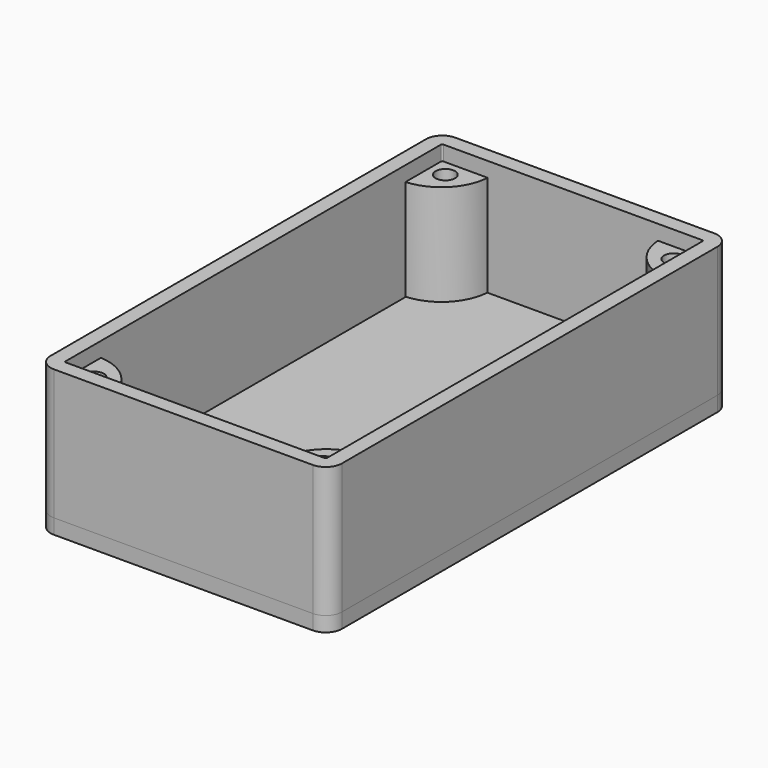
from build123d import *

# Parameters (mm, degrees)
PAD_DEPTH                     = 45
POCKET_DEPTH                  = 40.4
SKETCH002_R                   = 3
PAD001_DEPTH                  = 35.8
SKETCH002_MIRRORED_2_R        = 3
PAD001_MIRRORED_2_DEPTH       = 35.8
SKETCH006_W                   = 27
SKETCH006_H                   = 12
POCKET002_DEPTH               = 4.6
SKETCH007_W                   = 38
SKETCH007_H                   = 12
POCKET003_DEPTH               = 3.8
CHAMFER001_SIZE               = 0.6
PAD002_DEPTH                  = 4.6
PAD003_DEPTH                  = 4.6
SKETCH005_R                   = 3
POCKET001_DEPTH               = 9.2
SKETCH005_MIRRORED002_2_R     = 3
POCKET001_MIRRORED002_2_DEPTH = 9.2
CHAMFER_SIZE                  = 2


with BuildPart() as boxbody:
    # Sketch → Pad (new body)
    with BuildSketch(Plane.XY):
        with BuildLine():
            Line((-40, 77.5), (40, 77.5))
            ThreePointArc((45, 72.5), (43.535534, 76.035534), (40, 77.5))
            Line((45, 72.5), (45, -72.5))
            ThreePointArc((40, -77.5), (43.535534, -76.035534), (45, -72.5))
            Line((40, -77.5), (-40, -77.5))
            ThreePointArc((-45, -72.5), (-43.535534, -76.035534), (-40, -77.5))
            Line((-45, -72.5), (-45, 72.5))
            ThreePointArc((-40, 77.5), (-43.535534, 76.035534), (-45, 72.5))
        make_face()
    extrude(amount=PAD_DEPTH)

    # Sketch001 (on Face10 of Pad) → Pocket (cut)
    with BuildSketch(Plane.XY.offset(45)):
        with BuildLine():
            Line((-40, 72.9), (40, 72.9))
            ThreePointArc((40.4, 72.5), (40.282843, 72.782843), (40, 72.9))
            Line((40.4, 72.5), (40.4, -72.5))
            ThreePointArc((40, -72.9), (40.282843, -72.782843), (40.4, -72.5))
            Line((40, -72.9), (-40, -72.9))
            ThreePointArc((-40.4, -72.5), (-40.282843, -72.782843), (-40, -72.9))
            Line((-40.4, -72.5), (-40.4, 72.5))
            ThreePointArc((-40, 72.9), (-40.282843, 72.782843), (-40.4, 72.5))
        make_face()
    extrude(amount=-POCKET_DEPTH, mode=Mode.SUBTRACT)

    # Sketch002 (on Face19 of Pocket) → Pad001 (join)
    with BuildSketch(Plane.XY.offset(4.6)):
        with BuildLine():
            Line((-41.282843, 73.782843), (-42.7, 58.849937))
            ThreePointArc((-42.7, 58.849937), (-30.676241, 63.176241), (-26.349937, 75.2))
            Line((-41.282843, 73.782843), (-26.349937, 75.2))
        make_face()
        with Locations((-35.282843, 67.782843)):
            Circle(SKETCH002_R, mode=Mode.SUBTRACT)
    pad001 = extrude(amount=PAD001_DEPTH)

    # Sketch002 Mirrored 2 → Pad001 Mirrored 2 (add)
    with BuildSketch(Plane(origin=(0, 0, 4.6), x_dir=(-1, 0, 0), z_dir=(0, 0, -1))):
        with BuildLine():
            Line((-41.282843, 73.782843), (-42.7, 58.849937))
            ThreePointArc((-42.7, 58.849937), (-30.676241, 63.176241), (-26.349937, 75.2))
            Line((-41.282843, 73.782843), (-26.349937, 75.2))
        make_face()
        with Locations((-35.282843, 67.782843)):
            Circle(SKETCH002_MIRRORED_2_R, mode=Mode.SUBTRACT)
    pad001_mirrored_2 = extrude(amount=-PAD001_MIRRORED_2_DEPTH)

    # Mirrored001: Pad001, Pad001 Mirrored 2 across Sketch002 H_Axis
    add(pad001.mirror(Plane(origin=(0, 0, 4.6), x_dir=(0, 0, 1), z_dir=(0, 1, 0))))
    add(pad001_mirrored_2.mirror(Plane(origin=(0, 0, 4.6), x_dir=(0, 0, 1), z_dir=(0, 1, 0))))

    # Sketch006 (on Face21 of MultiTransform) → Pocket002 (cut)
    with BuildSketch(Plane.XY.offset(4.6)):
        with Locations((0, 36.45)):
            Rectangle(SKETCH006_W, SKETCH006_H)
    extrude(amount=-POCKET002_DEPTH, mode=Mode.SUBTRACT)

    # Sketch007 (on Face23 of Pocket002) → Pocket003 (cut)
    with BuildSketch(Plane.XY.offset(4.6)):
        with Locations((-1, 36.45)):
            Rectangle(SKETCH007_W, SKETCH007_H)
    extrude(amount=-POCKET003_DEPTH, mode=Mode.SUBTRACT)

    # Chamfer001
    chamfer001_edges = [boxbody.edges().sort_by_distance(p)[0] for p in [
        (0, 42.45, 0),
        (13.5, 36.45, 0),
        (0, 30.45, 0),
        (-13.5, 36.45, 0),
    ]]
    chamfer(chamfer001_edges, length=CHAMFER001_SIZE)


with BuildPart() as lidbody:
    # Sketch003 → Pad002 (new body)
    with BuildSketch(Plane.XY):
        with BuildLine():
            Line((-40, 77.5), (40, 77.5))
            ThreePointArc((45, 72.5), (43.535534, 76.035534), (40, 77.5))
            Line((45, 72.5), (45, -72.5))
            ThreePointArc((40, -77.5), (43.535534, -76.035534), (45, -72.5))
            Line((40, -77.5), (-40, -77.5))
            ThreePointArc((-45, -72.5), (-43.535534, -76.035534), (-40, -77.5))
            Line((-45, -72.5), (-45, 72.5))
            ThreePointArc((-40, 77.5), (-43.535534, 76.035534), (-45, 72.5))
        make_face()
    extrude(amount=PAD002_DEPTH)

    # Sketch004 (on Face10 of Pad002) → Pad003 (join)
    with BuildSketch(Plane.XY.offset(4.6)):
        with BuildLine():
            Line((-39.9, 72.8), (39.9, 72.8))
            ThreePointArc((40.3, 72.4), (40.182843, 72.682843), (39.9, 72.8))
            Line((40.3, 72.4), (40.3, -72.4))
            ThreePointArc((39.9, -72.8), (40.182843, -72.682843), (40.3, -72.4))
            Line((39.9, -72.8), (-39.9, -72.8))
            ThreePointArc((-40.3, -72.4), (-40.182843, -72.682843), (-39.9, -72.8))
            Line((-40.3, -72.4), (-40.3, 72.4))
            ThreePointArc((-39.9, 72.8), (-40.182843, 72.682843), (-40.3, 72.4))
        make_face()
    extrude(amount=PAD003_DEPTH)

    # Sketch005 (on Face19 of Pad003) → Pocket001 (cut)
    with BuildSketch(Plane.XY.offset(9.2)):
        with Locations((-35.282843, 67.782843)):
            Circle(SKETCH005_R)
    pocket001 = extrude(amount=-POCKET001_DEPTH, mode=Mode.SUBTRACT)

    # Sketch005 Mirrored002 2 → Pocket001 Mirrored002 2 (cut)
    with BuildSketch(Plane(origin=(0, 0, 9.2), x_dir=(-1, 0, 0), z_dir=(0, 0, -1))):
        with Locations((-35.282843, 67.782843)):
            Circle(SKETCH005_MIRRORED002_2_R)
    pocket001_mirrored002_2 = extrude(amount=POCKET001_MIRRORED002_2_DEPTH, mode=Mode.SUBTRACT)

    # Mirrored003: Pocket001, Pocket001 Mirrored002 2 across Sketch005 H_Axis
    add(pocket001.mirror(Plane(origin=(0, 0, 9.2), x_dir=(0, 0, 1), z_dir=(0, 1, 0))), mode=Mode.SUBTRACT)
    add(pocket001_mirrored002_2.mirror(Plane(origin=(0, 0, 9.2), x_dir=(0, 0, 1), z_dir=(0, 1, 0))), mode=Mode.SUBTRACT)

    # Chamfer
    chamfer_edges = [lidbody.edges().sort_by_distance(p)[0] for p in [
        (-38.282843, 67.782843, 0),
        (-38.282843, -67.782843, 0),
        (38.282843, -67.782843, 0),
        (38.282843, 67.782843, 0),
    ]]
    chamfer(chamfer_edges, length=CHAMFER_SIZE)


solid = Compound([boxbody.part, lidbody.part])
